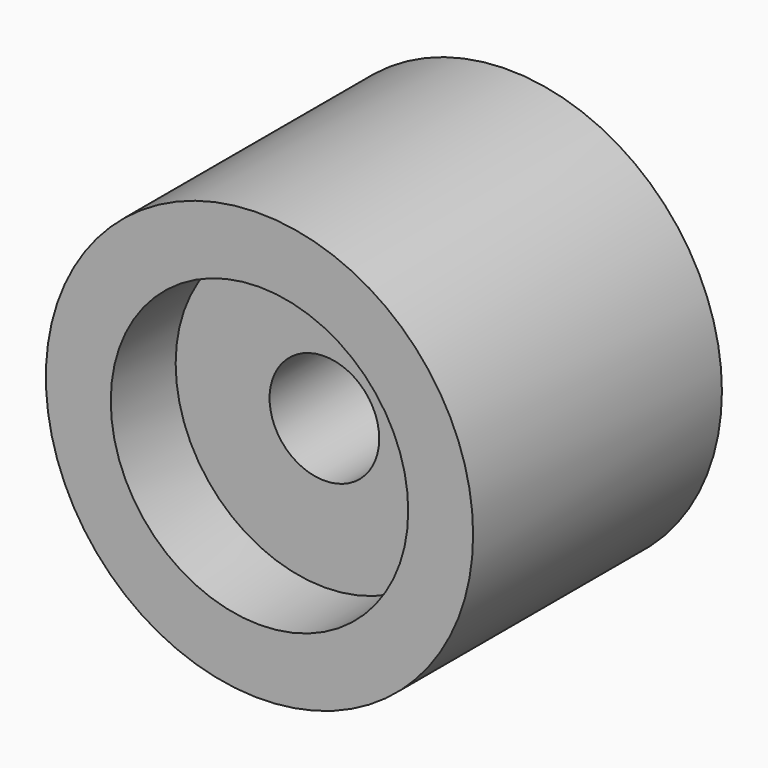
from build123d import *

# Parameters (mm, degrees)
F0_R     = 20.066
F1_DEPTH = 29.21
F2_R     = 13.97
F3_DEPTH = 7.62
F5_D     = 10.3


with BuildPart() as f1:
    # F0 (on Front) → F1 (new body)
    with BuildSketch(Plane.XZ):
        Circle(F0_R)
    extrude(amount=F1_DEPTH)

    # F2 (on face) → F3 (cut)
    with BuildSketch(Plane.XZ.offset(29.21)):
        Circle(F2_R)
    extrude(amount=-F3_DEPTH, mode=Mode.SUBTRACT)

    # F5 (through all)
    with Locations(Plane(origin=(0, 0, 0), x_dir=(-1, 0, 0), z_dir=(0, 1, 0))):
        with Locations((0, 0)):
            Hole(F5_D / 2)


solid = f1.part
